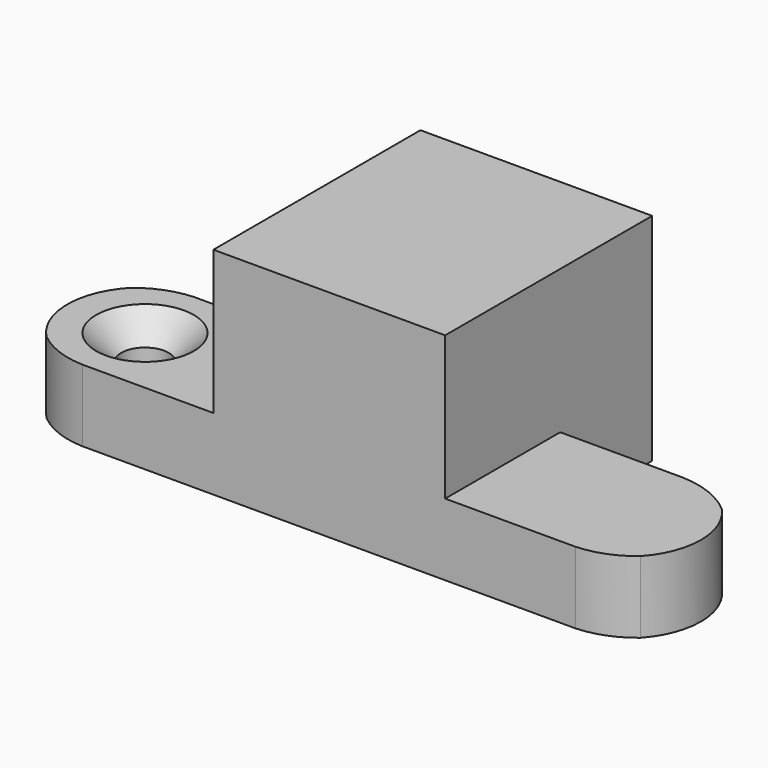
from build123d import *

# Parameters (mm, degrees)
F0_R           = 1.7
F1_DEPTH       = 5
F2_DEPTH       = 15
F4_D           = 3.3
F4_CSINK_D     = 6.8
F4_CSINK_ANGLE = 90


with BuildPart() as f1:
    # F0 (on Top) → F1 (new body)
    with BuildSketch(Plane.XY):
        with BuildLine():
            Line((-39.4, 0), (-30.654659, 0))
            Line((-30.654659, 0), (-30.654659, 10))
            Line((-30.654659, 10), (-39.386656, 10))
            Line((-39.386656, 10), (-40.009414, 10))
            ThreePointArc((-40.009414, 10), (-41.798277, 9.611144), (-43.374257, 8.679732))
            ThreePointArc((-43.374257, 8.679732), (-44.836341, 5.029774), (-43.374257, 1.379816))
            ThreePointArc((-43.374257, 1.379816), (-41.689998, 0.386223), (-39.773025, 0))
            Line((-39.773025, 0), (-39.4, 0))
        make_face()
        with Locations((-39.4, 5)):
            Circle(F0_R, mode=Mode.SUBTRACT)
        Polygon((-30.654659, 0), (-14.532625, 0), (-14.532625, 10), (-14.532625, 18), (-30.654659, 18), (-30.654659, 10), align=None)
        with BuildLine():
            Line((-6, 0), (-5.471228, 0))
            ThreePointArc((-5.471228, 0), (-3.641152, 0.386148), (-2.029729, 1.335675))
            ThreePointArc((-2.029729, 1.335675), (-0.646469, 4.881091), (-2.029729, 8.426508))
            ThreePointArc((-2.029729, 8.426508), (-3.879298, 9.555319), (-6, 10))
            Line((-6, 10), (-14.532625, 10))
            Line((-14.532625, 10), (-14.532625, 0))
            Line((-14.532625, 0), (-6, 0))
        make_face()
        with Locations((-6, 5)):
            Circle(F0_R, mode=Mode.SUBTRACT)
        with Locations((-39.4, 5)):
            Circle(F0_R)
        with Locations((-6, 5)):
            Circle(F0_R)
    extrude(amount=F1_DEPTH)

    # F0 (on Top) → F2 (join)
    with BuildSketch(Plane.XY):
        Polygon((-30.654659, 0), (-14.532625, 0), (-14.532625, 10), (-14.532625, 18), (-30.654659, 18), (-30.654659, 10), align=None)
    extrude(amount=F2_DEPTH)

    # F4 (through all)
    with Locations(Plane.XY.offset(5)):
        with Locations((-39.436341, 5.029774)):
            CounterSinkHole(F4_D / 2, F4_CSINK_D / 2, counter_sink_angle=F4_CSINK_ANGLE)


solid = f1.part
